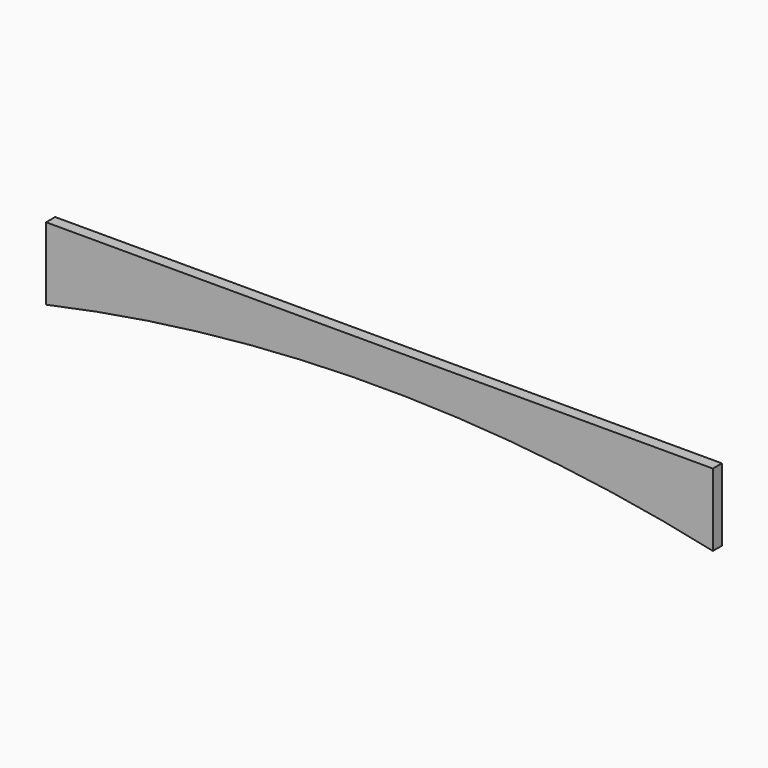
from build123d import *

# Parameters (mm, degrees)
F1_DEPTH = 25.4
F4_DEPTH = 15.875


with BuildPart() as f1:
    # F0 (on Front) → F1 (new body)
    with BuildSketch(Plane.XZ):
        with BuildLine():
            Line((862.5024050593, 9.3825748086), (-70.9475949407, 9.3825748086))
            Line((-70.9475949407, 9.3825748086), (-70.9475949407, -66.8174251914))
            ThreePointArc((-70.9475949407, -66.8174251914), (395.7774050593, -16.0174251914), (862.5024050593, -66.8174251914))
            Line((862.5024050593, -66.8174251914), (862.5024050593, 9.3825748086))
        make_face()
    extrude(amount=F1_DEPTH)


with BuildPart() as f4:
    # F3 (on Front) → F4 (new body)
    with BuildSketch(Plane.XZ):
        with BuildLine():
            Line((858.7739929676, 10.8425256968), (-74.6760070324, 10.8425256968))
            Line((-74.6760070324, 10.8425256968), (-74.6760070324, -90.7574743032))
            ThreePointArc((-74.6760070324, -90.7574743032), (392.0489929676, -39.9574743032), (858.7739929676, -90.7574743032))
            Line((858.7739929676, -90.7574743032), (858.7739929676, 10.8425256968))
        make_face()
    extrude(amount=F4_DEPTH)


solid = f4.part
